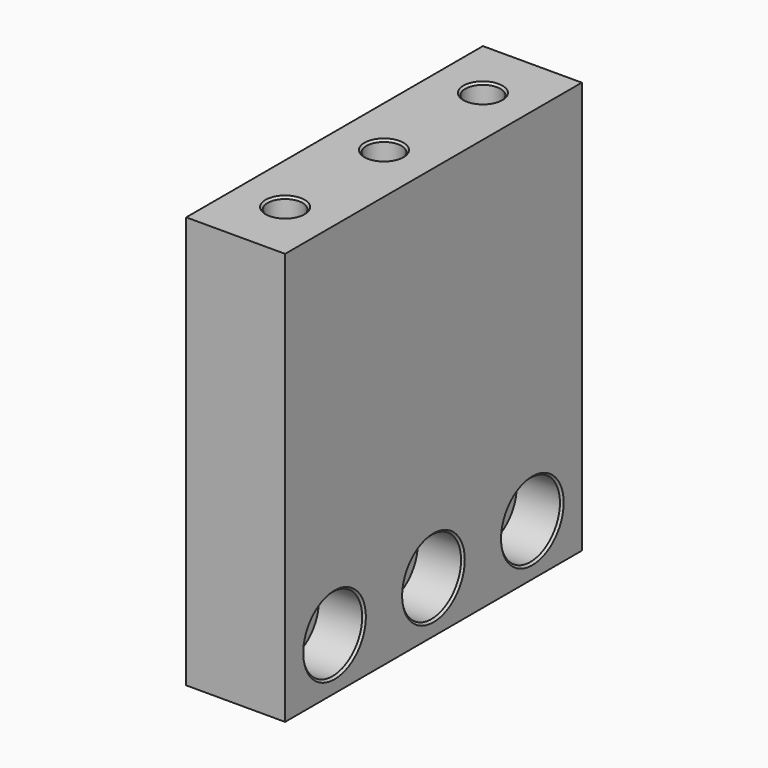
from build123d import *

# Parameters (mm, degrees)
F0_W     = 90
F0_H     = 100
F0_R     = 5.5
F1_DEPTH = 24
F2_R     = 9
F3_DEPTH = 11
F4_R     = 4.25
F5_DEPTH = 35
F6_SIZE  = 4.25
F7_SIZE  = 0.5


with BuildPart() as f1:
    # F0 (on Right) → F1 (new body)
    with BuildSketch(Plane.YZ):
        Rectangle(F0_W, F0_H)
        with Locations((-30, -37.5)):
            Circle(F0_R, mode=Mode.SUBTRACT)
        with Locations((0, -37.5)):
            Circle(F0_R, mode=Mode.SUBTRACT)
        with Locations((30, -37.5)):
            Circle(F0_R, mode=Mode.SUBTRACT)
    extrude(amount=F1_DEPTH)

    # F2 (on face) → F3 (cut)
    with BuildSketch(Plane.YZ.offset(24)):
        with Locations((-30, -37.5)):
            Circle(F2_R)
        with Locations((0, -37.5)):
            Circle(F2_R)
        with Locations((30, -37.5)):
            Circle(F2_R)
    extrude(amount=-F3_DEPTH, mode=Mode.SUBTRACT)

    # F4 (on face) → F5 (cut)
    with BuildSketch(Plane.XY.offset(50)):
        with Locations((12, -30)):
            Circle(F4_R)
        with Locations((12, 0)):
            Circle(F4_R)
        with Locations((12, 30)):
            Circle(F4_R)
    extrude(amount=-F5_DEPTH, mode=Mode.SUBTRACT)

    # F6
    f6_edges = [f1.edges().sort_by_distance(p)[0] for p in [
        (7.75, 30, 15),
        (7.75, 0, 15),
        (7.75, -30, 15),
    ]]
    chamfer(f6_edges, length=F6_SIZE)

    # F7
    f7_edges = [f1.edges().sort_by_distance(p)[0] for p in [
        (0, -35.5, -37.5),
        (0, -5.5, -37.5),
        (0, 24.5, -37.5),
        (7.75, 30, 50),
        (7.75, 0, 50),
        (7.75, -30, 50),
        (24, -39, -37.5),
        (24, -9, -37.5),
        (24, 21, -37.5),
    ]]
    chamfer(f7_edges, length=F7_SIZE)


solid = f1.part
